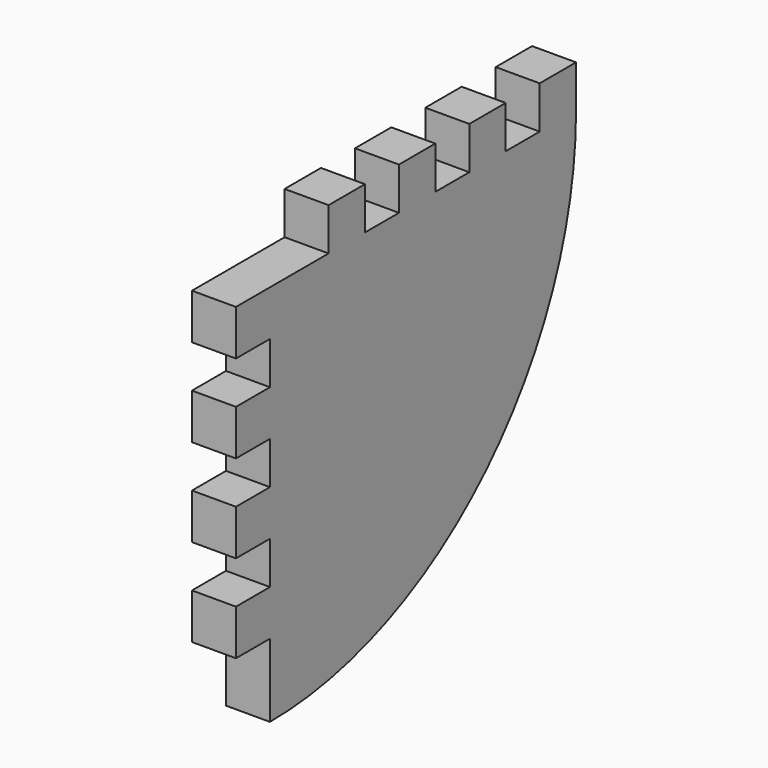
from build123d import *

# Parameters (mm, degrees)
F1_DEPTH = 6


with BuildPart() as f1:
    # F0 (on Right) → F1 (new body)
    with BuildSketch(Plane.YZ):
        with BuildLine():
            Line((5.8, -42.2), (5.8, -52.2))
            ThreePointArc((5.8, -52.2), (42.710974, -36.910974), (58, 0))
            Line((58, 0), (58, 5.8))
            Line((58, 5.8), (51.8, 5.8))
            Line((51.8, 5.8), (51.8, 0))
            Line((51.8, 0), (46, 0))
            Line((46, 0), (46, 5.8))
            Line((46, 5.8), (39.8, 5.8))
            Line((39.8, 5.8), (39.8, 0))
            Line((39.8, 0), (34, 0))
            Line((34, 0), (34, 5.8))
            Line((34, 5.8), (27.8, 5.8))
            Line((27.8, 5.8), (27.8, 0))
            Line((27.8, 0), (22, 0))
            Line((22, 0), (22, 5.8))
            Line((22, 5.8), (15.8, 5.8))
            Line((15.8, 5.8), (15.8, 0))
            Line((15.8, 0), (0, 0))
            Line((0, 0), (0, -6.2))
            Line((0, -6.2), (5.8, -6.2))
            Line((5.8, -6.2), (5.8, -12))
            Line((5.8, -12), (0, -12))
            Line((0, -12), (0, -18.2))
            Line((0, -18.2), (5.8, -18.2))
            Line((5.8, -18.2), (5.8, -24))
            Line((5.8, -24), (0, -24))
            Line((0, -24), (0, -30.2))
            Line((0, -30.2), (5.8, -30.2))
            Line((5.8, -30.2), (5.8, -36))
            Line((5.8, -36), (0, -36))
            Line((0, -36), (0, -42.2))
            Line((0, -42.2), (5.8, -42.2))
        make_face()
    extrude(amount=F1_DEPTH)


solid = f1.part
